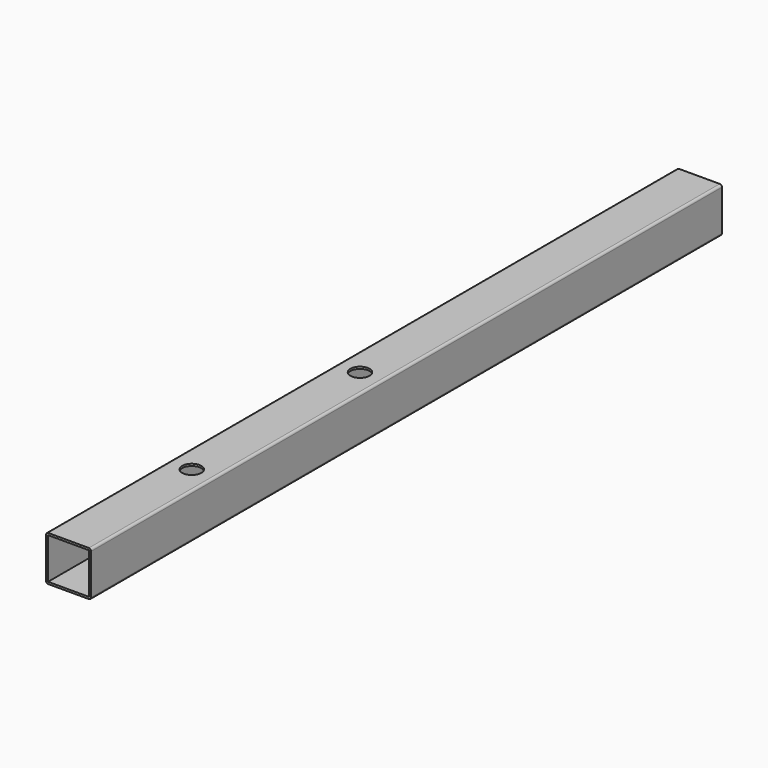
from build123d import *

# Parameters (mm, degrees)
F0_W     = 20
F0_H     = 20
F0_W_2   = 18.2
F0_H_2   = 18.2
F1_DEPTH = 175
F2_R     = 1
F4_D     = 8.5


with BuildPart() as f1:
    # F0 (on Front) → F1 (new body, symmetric)
    with BuildSketch(Plane.XZ):
        Rectangle(F0_W, F0_H)
        Rectangle(F0_W_2, F0_H_2, mode=Mode.SUBTRACT)
    extrude(amount=F1_DEPTH, both=True)

    # F2
    f2_edges = [f1.edges().sort_by_distance(p)[0] for p in [
        (10, 0, 10),
        (-10, 0, 10),
        (10, 0, -10),
        (-10, 0, -10),
    ]]
    fillet(f2_edges, radius=F2_R)

    # F4 (through all)
    with Locations(Plane.XY.offset(10)):
        with Locations((0, -13.331), (0, -106.669)):
            Hole(F4_D / 2)


solid = f1.part
